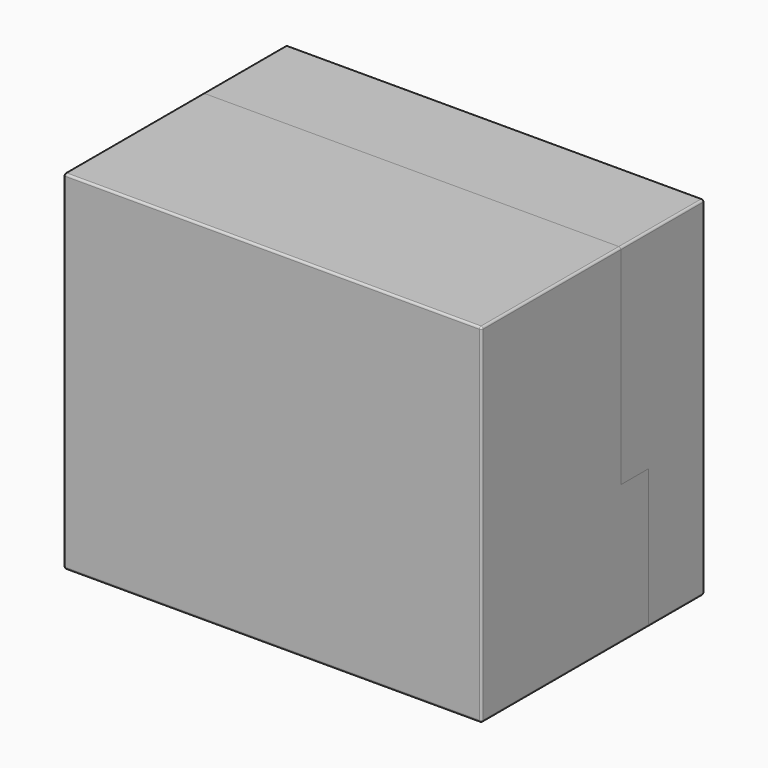
from build123d import *

# Parameters (mm, degrees)
F0_W     = 304.8
F0_H     = 254
F1_DEPTH = 101.6
F2_R     = 1.524
F4_DEPTH = 152.4
F6_R     = 1.524


with BuildPart() as f1:
    # F0 (on Front) → F1 (new body, symmetric)
    with BuildSketch(Plane.XZ):
        Rectangle(F0_W, F0_H)
    extrude(amount=F1_DEPTH, both=True)

    # F2
    f2_edges = [f1.edges().sort_by_distance(p)[0] for p in [
        (152.4, -101.6, 0),
        (0, -101.6, 127),
        (-152.4, -101.6, 0),
        (0, -101.6, -127),
        (152.4, 101.6, 0),
        (0, 101.6, 127),
        (-152.4, 101.6, 0),
        (0, 101.6, -127),
        (152.4, 0, 127),
        (-152.4, 0, 127),
        (152.4, 0, -127),
        (-152.4, 0, -127),
    ]]
    fillet(f2_edges, radius=F2_R)


with BuildPart() as f4:
    # F3 (on Right) → F4 (new body, symmetric)
    with BuildSketch(Plane.YZ):
        Polygon((25.4, 127), (-100.076, 127), (-100.076, -127), (50.8, -127), (50.8, -25.4), (25.4, -25.4), align=None)
    extrude(amount=F4_DEPTH, both=True)

    # F6
    f6_edges = [f4.edges().sort_by_distance(p)[0] for p in [
        (152.4, -37.338, 127),
        (152.4, -24.638, -127),
        (-152.4, -24.638, -127),
        (-152.4, -37.338, 127),
    ]]
    fillet(f6_edges, radius=F6_R)


with BuildPart() as f1_1:
    add(f1.part)

    # F5: cut F4
    add(f4.part, mode=Mode.SUBTRACT)


solid = Compound([f4.part, f1_1.part])
